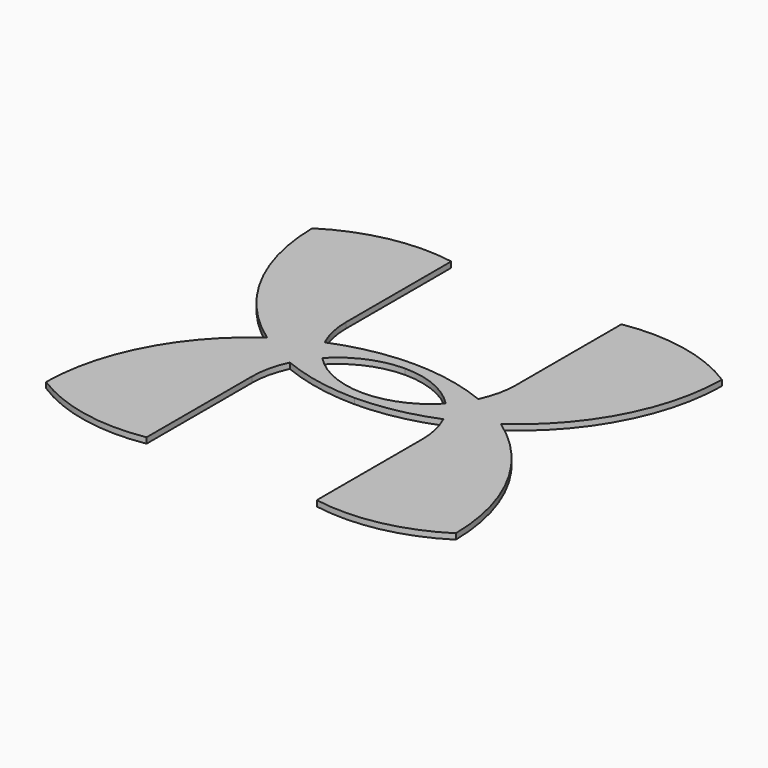
from build123d import *

# Parameters (mm, degrees)
F1_DEPTH = 1


with BuildPart() as f1:
    # F0 (on Top) → F1 (new body)
    with BuildSketch(Plane.XY):
        with BuildLine():
            Line((-15, 10.325989), (-15, 33.567894))
            ThreePointArc((-15, 33.567894), (-25.955882, 33.417383), (-36.117356, 29.318795))
            ThreePointArc((-36.117356, 29.318795), (-31.910117, 12.780877), (-20.602917, 0))
            ThreePointArc((-20.602917, 0), (-31.910117, -12.780877), (-36.117356, -29.318795))
            ThreePointArc((-36.117356, -29.318795), (-25.955882, -33.417383), (-15, -33.567894))
            Line((-15, -33.567894), (-15, -10.325989))
            ThreePointArc((-15, -10.325989), (-14.627121, -7.002234), (-13.527021, -3.843728))
            ThreePointArc((-13.527021, -3.843728), (-6.891694, -5.828547), (0, -6.515288))
            ThreePointArc((0, -6.515288), (6.891694, -5.828547), (13.527021, -3.843728))
            ThreePointArc((13.527021, -3.843728), (14.627121, -7.002234), (15, -10.325989))
            Line((15, -10.325989), (15, -33.567894))
            ThreePointArc((15, -33.567894), (25.955882, -33.417383), (36.117356, -29.318795))
            ThreePointArc((36.117356, -29.318795), (31.910117, -12.780877), (20.602917, 0))
            ThreePointArc((20.602917, 0), (31.910117, 12.780877), (36.117356, 29.318795))
            ThreePointArc((36.117356, 29.318795), (25.955882, 33.417383), (15, 33.567894))
            Line((15, 33.567894), (15, 10.325989))
            ThreePointArc((15, 10.325989), (14.627121, 7.002234), (13.527021, 3.843728))
            ThreePointArc((13.527021, 3.843728), (6.891694, 5.828547), (0, 6.515288))
            ThreePointArc((0, 6.515288), (-6.891694, 5.828547), (-13.527021, 3.843728))
            ThreePointArc((-13.527021, 3.843728), (-14.627121, 7.002234), (-15, 10.325989))
        make_face()
        with BuildLine():
            ThreePointArc((0, 4.674011), (5.920733, 3.456061), (10.879979, 0))
            ThreePointArc((10.879979, 0), (5.920733, -3.456061), (0, -4.674011))
            ThreePointArc((0, -4.674011), (-5.920733, -3.456061), (-10.879979, 0))
            ThreePointArc((-10.879979, 0), (-5.920733, 3.456061), (0, 4.674011))
        make_face(mode=Mode.SUBTRACT)
    extrude(amount=F1_DEPTH)


solid = f1.part
